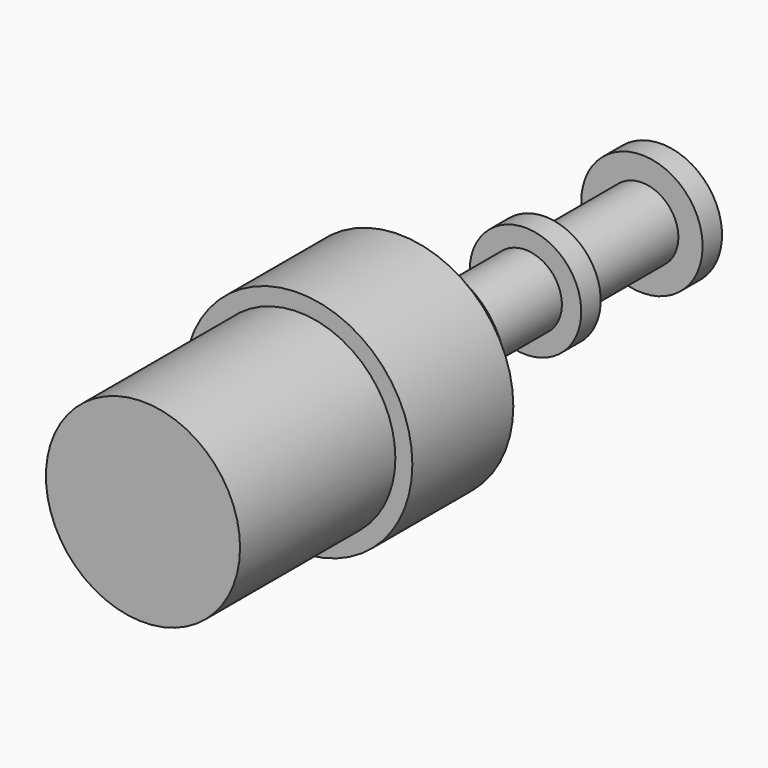
from build123d import *

# Parameters (mm, degrees)
F0_R      = 2.35
F1_DEPTH  = 2.6
F2_R      = 2
F3_DEPTH  = 4
F4_R      = 1.6
F5_DEPTH  = 0.75
F6_R      = 0.75
F7_DEPTH  = 2.5
F8_R      = 1.15
F9_DEPTH  = 0.5
F10_R     = 0.75
F11_DEPTH = 2.5
F12_R     = 1.25
F13_DEPTH = 0.5


with BuildPart() as f1:
    # F0 (on Front) → F1 (new body)
    with BuildSketch(Plane.XZ):
        Circle(F0_R)
    extrude(amount=F1_DEPTH)

    # F2 (on face) → F3 (join)
    with BuildSketch(Plane.XZ.offset(2.6)):
        Circle(F2_R)
    extrude(amount=F3_DEPTH)

    # F4 (on face) → F5 (join)
    with BuildSketch(Plane(origin=(0, 0, 0), x_dir=(-1, 0, 0), z_dir=(0, 1, 0))):
        Circle(F4_R)
    extrude(amount=F5_DEPTH)

    # F6 (on face) → F7 (join)
    with BuildSketch(Plane(origin=(0, 0.75, 0), x_dir=(-1, 0, 0), z_dir=(0, 1, 0))):
        Circle(F6_R)
    extrude(amount=F7_DEPTH)

    # F8 (on face) → F9 (join)
    with BuildSketch(Plane(origin=(0, 3.25, 0), x_dir=(-1, 0, 0), z_dir=(0, 1, 0))):
        Circle(F8_R)
    extrude(amount=F9_DEPTH)

    # F10 (on face) → F11 (join)
    with BuildSketch(Plane(origin=(0, 3.75, 0), x_dir=(-1, 0, 0), z_dir=(0, 1, 0))):
        Circle(F10_R)
    extrude(amount=F11_DEPTH)

    # F12 (on face) → F13 (join)
    with BuildSketch(Plane(origin=(0, 6.25, 0), x_dir=(-1, 0, 0), z_dir=(0, 1, 0))):
        Circle(F12_R)
    extrude(amount=F13_DEPTH)


solid = f1.part
